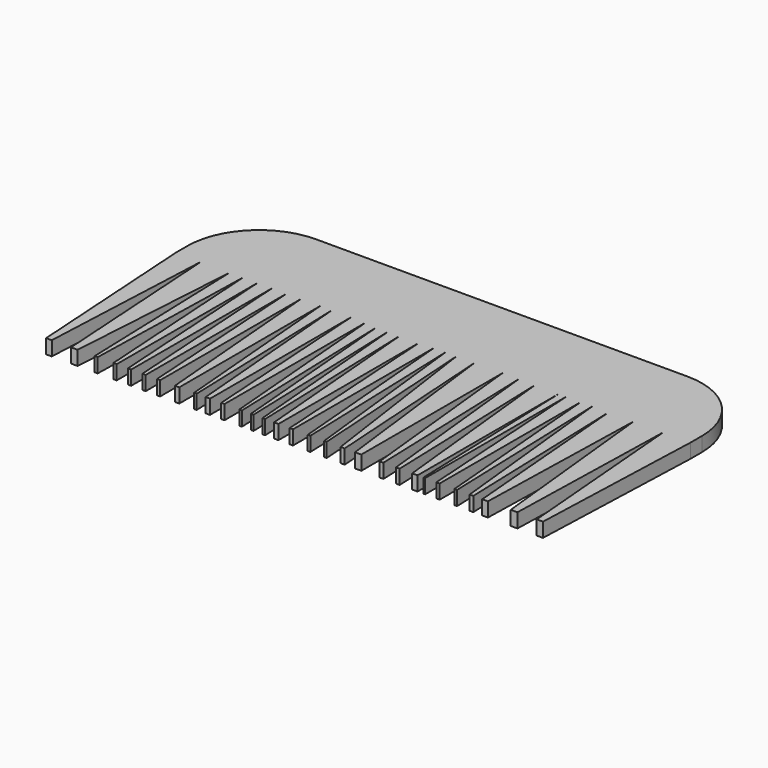
from build123d import *

# Parameters (mm, degrees)
F1_DEPTH = 2.54
F2_R     = 12.7


with BuildPart() as f1:
    # F0 (on Top) → F1 (new body)
    with BuildSketch(Plane.XY):
        Polygon((73.3829085314, 9.4430754296), (-18.0570914686, 9.4430754296), (-18.0570914686, -5.7969245704), (-13.6215174571, -5.7969245704), (-8.4692621604, -5.7969245704), (-6.0992240906, -5.7969245704), (-3.5184609428, -5.7969245704), (-0.937697795, -5.7969245704), (1.6430653527, -5.7969245704), (4.2052869685, -5.7969245704), (7.6057757251, -5.7969245704), (9.6666784957, -5.7969245704), (13.0671672523, -5.7969245704), (15.6479304001, -5.7969245704), (17.7088331707, -5.7969245704), (19.7697359413, -5.7969245704), (21.8306387119, -5.7969245704), (25.2311274685, -5.7969245704), (27.8118906163, -5.7969245704), (29.8727933869, -5.7969245704), (31.816742076, -5.7969245704), (35.011141254, -5.7969245704), (39.9619415402, -5.7969245704), (42.8472035564, -5.7969245704), (45.7324655727, -5.7969245704), (49.9573135749, -5.7969245704), (51.2968995608, -5.7969245704), (53.8776627086, -5.7969245704), (55.9385654792, -5.7969245704), (58.8238274954, -5.7969245704), (63.2547683358, -5.7969245704), (68.5100684218, -5.7969245704), (73.3829085314, -5.7969245704), align=None)
        Polygon((-13.6215174571, -5.7969245704), (-18.0570914686, -5.7969245704), (-16.0638535681, -37.1604112962), (-15.0540701944, -37.1604112962), align=None)
        Polygon((-8.4692621604, -5.7969245704), (-13.6215174571, -5.7969245704), (-11.6282795566, -37.1604112962), (-10.455339657, -37.1604112962), align=None)
        Polygon((-6.0992240906, -5.7969245704), (-8.4692621604, -5.7969245704), (-7.4346404592, -37.1604112962), (-6.8950879612, -37.1604112962), align=None)
        Polygon((-3.5184609428, -5.7969245704), (-6.0992240906, -5.7969245704), (-4.1059861901, -37.1604112962), (-3.5184609428, -37.1604112962), align=None)
        Polygon((-0.937697795, -5.7969245704), (-3.5184609428, -5.7969245704), (-1.5252230424, -37.1604112962), (-0.937697795, -37.1604112962), align=None)
        Polygon((1.6430653527, -5.7969245704), (-0.937697795, -5.7969245704), (1.0555401054, -37.1604112962), (1.6430653527, -37.1604112962), align=None)
        Polygon((4.2052869685, -5.7969245704), (1.6430653527, -5.7969245704), (3.6320772404, -37.1604112962), (4.2052869685, -37.1604112962), align=None)
        Polygon((7.6057757251, -5.7969245704), (4.2052869685, -5.7969245704), (6.831635332, -37.1604112962), (7.6057757251, -37.1604112962), align=None)
        Polygon((13.0671672523, -5.7969245704), (9.6666784957, -5.7969245704), (12.2930268592, -37.1604112962), (13.0671672523, -37.1604112962), align=None)
        Polygon((15.6479304001, -5.7969245704), (13.0671672523, -5.7969245704), (15.0604051528, -37.1604112962), (15.6479304001, -37.1604112962), align=None)
        Polygon((17.7088331707, -5.7969245704), (15.6479304001, -5.7969245704), (18.2742787636, -37.1604112962), (18.7434548718, -37.1604112962), align=None)
        Polygon((19.7697359413, -5.7969245704), (17.7088331707, -5.7969245704), (20.3351815342, -37.1604112962), (20.8043576424, -37.1604112962), align=None)
        Polygon((21.8306387119, -5.7969245704), (19.7697359413, -5.7969245704), (22.3960843048, -37.1604112962), (22.865260413, -37.1604112962), align=None)
        Polygon((30.907415088, -37.1604112962), (29.8727933869, -5.7969245704), (27.8118906163, -5.7969245704), (30.4382389798, -37.1604112962), align=None)
        Polygon((33.8099799764, -37.1604112962), (31.816742076, -5.7969245704), (29.8727933869, -5.7969245704), (33.3674291227, -37.1604112962), align=None)
        Polygon((37.0043791545, -37.1604112962), (35.011141254, -5.7969245704), (31.816742076, -5.7969245704), (36.2771562132, -37.1604112962), align=None)
        Polygon((39.9619415402, -37.1604112962), (39.9619415402, -5.7969245704), (35.011141254, -5.7969245704), (38.834864007, -37.1604112962), align=None)
        Polygon((25.2311274685, -5.7969245704), (21.8306387119, -5.7969245704), (24.4569870754, -37.1604112962), (25.2311274685, -37.1604112962), align=None)
        Polygon((27.8118906163, -37.1604112962), (27.8118906163, -5.7969245704), (25.2311274685, -5.7969245704), (27.2243653689, -37.1604112962), align=None)
        Polygon((43.8818252576, -37.1604112962), (42.8472035564, -5.7969245704), (39.9619415402, -5.7969245704), (43.2249791301, -37.1604112962), align=None)
        Polygon((46.7670872738, -37.1604112962), (45.7324655727, -5.7969245704), (42.8472035564, -5.7969245704), (46.1102411463, -37.1604112962), align=None)
        Polygon((49.9573135749, -37.1604112962), (49.9573135749, -5.7969245704), (45.7324655727, -5.7969245704), (48.9955031625, -37.1604112962), align=None)
        Polygon((51.2968995608, -37.1604112962), (51.2968995608, -5.7969245704), (49.9573135749, -5.7969245704), (50.991935276, -37.1604112962), align=None)
        Polygon((53.8776627086, -37.1604112962), (53.8776627086, -5.7969245704), (51.2968995608, -5.7969245704), (53.2901374613, -37.1604112962), align=None)
        Polygon((56.9731871804, -37.1604112962), (55.9385654792, -5.7969245704), (53.8776627086, -5.7969245704), (56.5040110721, -37.1604112962), align=None)
        Polygon((59.8584491966, -37.1604112962), (58.8238274954, -5.7969245704), (55.9385654792, -5.7969245704), (59.201603069, -37.1604112962), align=None)
        Polygon((62.4589044652, -37.1604112962), (63.2547683358, -5.7969245704), (58.8238274954, -5.7969245704), (61.4501758589, -37.1604112962), align=None)
        Polygon((67.7142045512, -37.1604112962), (68.5100684218, -5.7969245704), (63.2547683358, -5.7969245704), (66.5178059256, -37.1604112962), align=None)
        Polygon((72.2457462459, -37.1604112962), (73.3829085314, -5.7969245704), (68.5100684218, -5.7969245704), (71.1364167853, -37.1604112962), align=None)
        Polygon((9.6666784957, -5.7969245704), (7.6057757251, -5.7969245704), (10.2321240886, -37.1604112962), (10.7013001968, -37.1604112962), align=None)
    extrude(amount=F1_DEPTH)

    # F2
    f2_edges = [f1.edges().sort_by_distance(p)[0] for p in [
        (73.382909, 9.443075, 1.27),
        (-18.057091, 9.443075, 1.27),
    ]]
    fillet(f2_edges, radius=F2_R)


solid = f1.part
